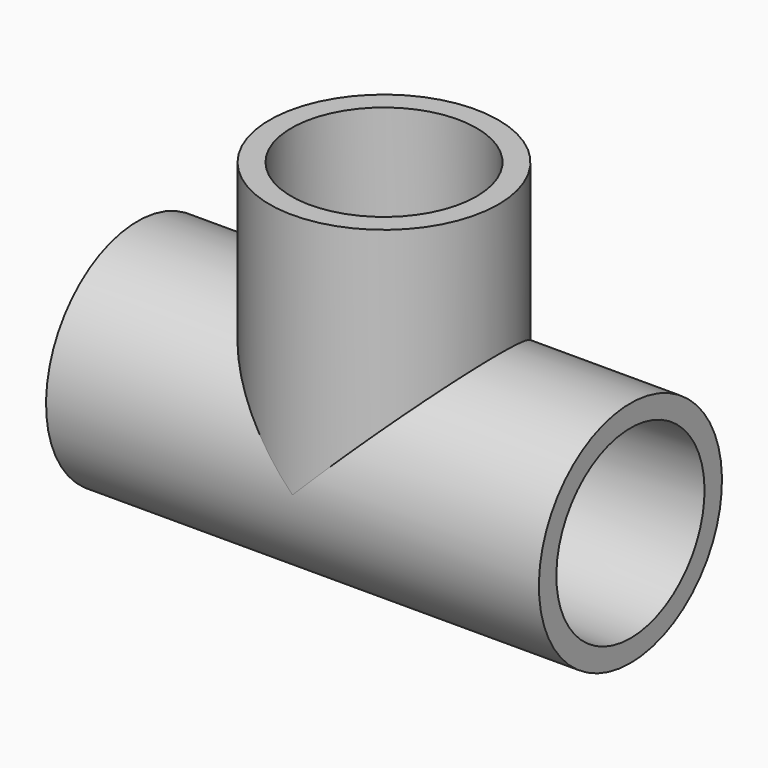
from build123d import *

# Parameters (mm, degrees)
SOCKETRIGHT_R                       = 16.7005
SOCKETRIGHT_DEPTH                   = 29.68625
SOCKETRIGHT_PITCH_ANGLE             = 90
SOCKETTOP_R                         = 16.7005
SOCKETTOP_DEPTH                     = 29.68625
SOCKETLEFT_R                        = 16.7005
SOCKETLEFT_DEPTH                    = 29.68625
SOCKETLEFT_PITCH_ANGLE              = 90
OBJ1_R           = 13.0683
OBJ1_DEPTH       = 97.79
OBJ1_PITCH_ANGLE = 90
OBJ2             = 13.0683
OBJ3         = 48.895
OBJ4_R           = 20.6375
OBJ4_DEPTH       = 88.9
OBJ4_PITCH_ANGLE = 90
OBJ5             = 20.6375
OBJ6         = 44.45


with BuildPart() as socketright:
    # SocketRight → SocketRight (new body)
    with BuildSketch(Plane.XY):
        Circle(SOCKETRIGHT_R)
    extrude(amount=SOCKETRIGHT_DEPTH)


with BuildPart() as socketright_1:
    # SocketRight pitch: moved
    add(socketright.part.rotate(Axis((0, 0, 0), (0, 1, 0)), SOCKETRIGHT_PITCH_ANGLE))


with BuildPart() as socketright_2:
    # SocketRight placement: moved
    add(socketright_1.part.moved(Location((17.4625, 0, 0))))


with BuildPart() as sockettop:
    # SocketTop → SocketTop (new body)
    with BuildSketch(Plane.XY.offset(17.4625)):
        Circle(SOCKETTOP_R)
    extrude(amount=SOCKETTOP_DEPTH)


with BuildPart() as sockets:
    # SocketLeft → SocketLeft (new body)
    with BuildSketch(Plane.XY):
        Circle(SOCKETLEFT_R)
    extrude(amount=SOCKETLEFT_DEPTH)


with BuildPart() as sockets_1:
    # SocketLeft pitch: moved
    add(sockets.part.rotate(Axis((0, 0, 0), (0, 1, 0)), SOCKETLEFT_PITCH_ANGLE))


with BuildPart() as sockets_2:
    # SocketLeft placement: moved
    add(sockets_1.part.moved(Location((-47.14875, 0, 0))))

    # Sockets: union SocketRight, SocketTop
    add(socketright_2.part)
    add(sockettop.part)


with BuildPart() as obj1:
    # obj1 → obj1 (new body)
    with BuildSketch(Plane.XY):
        Circle(OBJ1_R)
    extrude(amount=OBJ1_DEPTH)


with BuildPart() as obj1_1:
    # obj1 pitch: moved
    add(obj1.part.rotate(Axis((0, 0, 0), (0, 1, 0)), OBJ1_PITCH_ANGLE))


with BuildPart() as obj1_2:
    # obj1 placement: moved
    add(obj1_1.part.moved(Location((-48.895, 0, 0))))


with BuildPart() as innerteefusion:
    with BuildSketch(Plane.XY):
        Circle(OBJ2)
    extrude(amount=OBJ3)

    # InnerTeeFusion: union obj1
    add(obj1_2.part)


with BuildPart() as obj4:
    # obj4 → obj4 (new body)
    with BuildSketch(Plane.XY):
        Circle(OBJ4_R)
    extrude(amount=OBJ4_DEPTH)


with BuildPart() as obj4_1:
    # obj4 pitch: moved
    add(obj4.part.rotate(Axis((0, 0, 0), (0, 1, 0)), OBJ4_PITCH_ANGLE))


with BuildPart() as obj4_2:
    # obj4 placement: moved
    add(obj4_1.part.moved(Location((-44.45, 0, 0))))


with BuildPart() as tee:
    with BuildSketch(Plane.XY):
        Circle(OBJ5)
    extrude(amount=OBJ6)

    # OuterTeeFusion: union obj4
    add(obj4_2.part)

    # Cut: cut InnerTeeFusion
    add(innerteefusion.part, mode=Mode.SUBTRACT)

    # Tee: cut Sockets
    add(sockets_2.part, mode=Mode.SUBTRACT)


solid = tee.part
